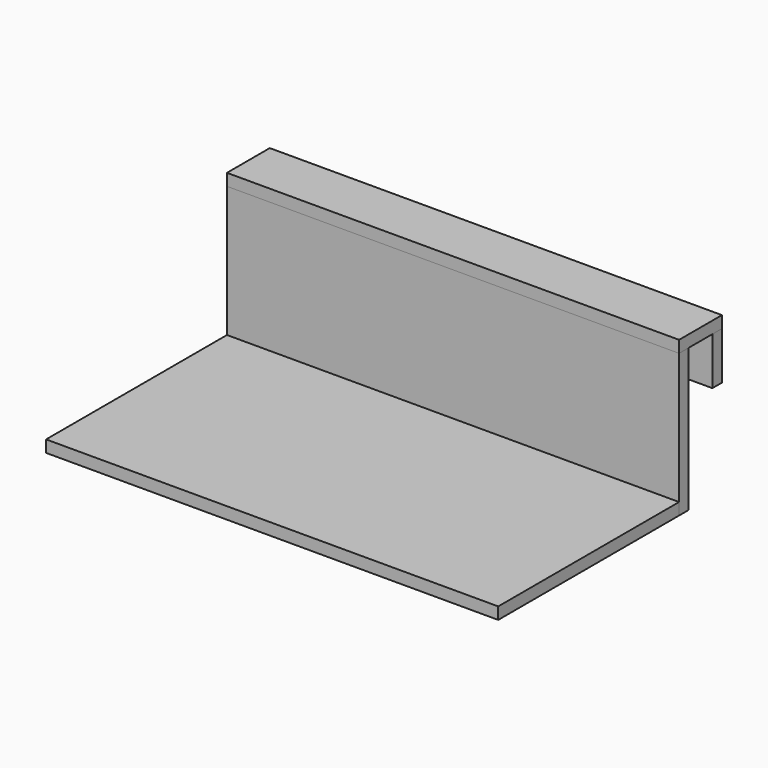
from build123d import *

# Parameters (mm, degrees)
F0_W     = 965.2
F0_H     = 304.8
F1_DEPTH = 25.4
F2_W     = 965.2
F2_H     = 25.4
F3_DEPTH = 482.6
F4_W     = 965.2
F4_H     = 114.3
F5_DEPTH = 25.4
F6_W     = 965.2
F6_H     = 25.4
F7_DEPTH = 101.6


with BuildPart() as f1:
    # F0 (on Front) → F1 (new body)
    with BuildSketch(Plane.XZ):
        with Locations((0, 152.4)):
            Rectangle(F0_W, F0_H)
    extrude(amount=F1_DEPTH)


with BuildPart() as f3:
    # F2 (on face) → F3 (new body)
    with BuildSketch(Plane.XZ.offset(25.4)):
        with Locations((0, 12.7)):
            Rectangle(F2_W, F2_H)
    extrude(amount=F3_DEPTH)


with BuildPart() as f5:
    # F4 (on face) → F5 (new body)
    with BuildSketch(Plane.XY.offset(304.8)):
        with Locations((0, 31.75)):
            Rectangle(F4_W, F4_H)
    extrude(amount=F5_DEPTH)


with BuildPart() as f7:
    # F6 (on face) → F7 (new body)
    with BuildSketch(Plane(origin=(0, 0, 304.8), x_dir=(1, 0, 0), z_dir=(0, 0, -1))):
        with Locations((0, -76.2)):
            Rectangle(F6_W, F6_H)
    extrude(amount=F7_DEPTH)


solid = Compound([f1.part, f3.part, f5.part, f7.part])
